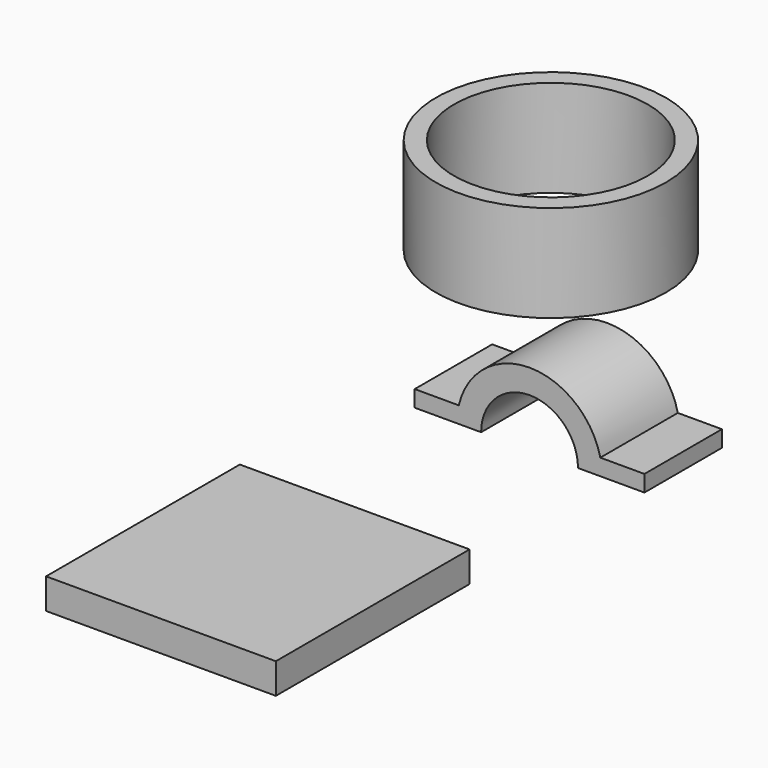
from build123d import *

# Parameters (mm, degrees)
F1_DEPTH = 25.4
F2_W     = 60.2488
F2_H     = 7.997628
F3_DEPTH = 63.5
F4_R     = 30.1498
F4_R_2   = 25.4
F5_DEPTH = 25.4


with BuildPart() as f1:
    # F0 (on Front) → F1 (new body)
    with BuildSketch(Plane.XZ):
        with BuildLine():
            ThreePointArc((-12.7, 0), (0, 12.7), (12.7, 0))
            Line((12.7, 0), (30.120043, 0))
            Line((30.120043, 0), (30.120043, 4.302863))
            Line((30.120043, 4.302863), (18.55769, 4.302863))
            ThreePointArc((18.55769, 4.302863), (0, 19.05), (-18.55769, 4.302863))
            Line((-18.55769, 4.302863), (-30.120043, 4.302863))
            Line((-30.120043, 4.302863), (-30.120043, 0))
            Line((-30.120043, 0), (-12.7, 0))
        make_face()
    extrude(amount=F1_DEPTH)


with BuildPart() as f3:
    # F2 (on Front) → F3 (new body)
    with BuildSketch(Plane.XZ):
        with Locations((-66.171065, -48.959609)):
            Rectangle(F2_W, F2_H)
    extrude(amount=F3_DEPTH)


with BuildPart() as f5:
    # F4 (on Top) → F5 (new body)
    with BuildSketch(Plane.XY):
        with Locations((-51.993508, 46.578594)):
            Circle(F4_R)
        with Locations((-51.993508, 46.578594)):
            Circle(F4_R_2, mode=Mode.SUBTRACT)
    extrude(amount=F5_DEPTH)


solid = Compound([f1.part, f3.part, f5.part])
